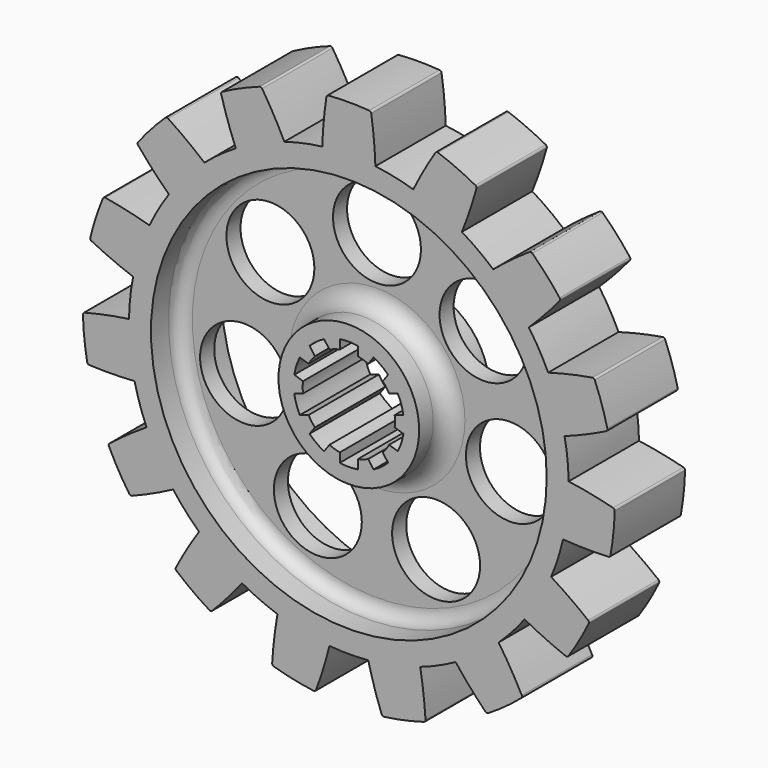
from build123d import *

# Parameters (mm, degrees)
F1_DEPTH = 20
F2_R     = 10
F3_DEPTH = 56
F5_R     = 45
F5_R_2   = 16
F6_DEPTH = 8
F7_R     = 45
F7_R_2   = 16
F8_DEPTH = 8
F9_R     = 3
F10_R    = 4
F11_R    = 0.5


with BuildPart() as f1:
    # F0 (on Front) → F1 (new body)
    with BuildSketch(Plane.XZ):
        with BuildLine():
            ThreePointArc((48.729363, -11.200408), (49.681325, -5.636126), (50, 0))
            ThreePointArc((50, 0), (49.998301, 0.412138), (49.993206, 0.824248))
            ThreePointArc((49.993206, 0.824248), (49.726095, 5.226423), (49.072105, 9.587936))
            ThreePointArc((49.072105, 9.587936), (47.552826, 15.45085), (45.335814, 21.087057))
            ThreePointArc((45.335814, 21.087057), (43.30127, 25), (40.929834, 28.718438))
            ThreePointArc((40.929834, 28.718438), (37.157241, 33.45653), (32.839448, 37.703722))
            ThreePointArc((32.839448, 37.703722), (29.389263, 40.45085), (25.710422, 42.883262))
            ThreePointArc((25.710422, 42.883262), (20.336832, 45.677273), (14.664844, 47.801071))
            ThreePointArc((14.664844, 47.801071), (10.395585, 48.90738), (6.045446, 49.63318))
            ThreePointArc((6.045446, 49.63318), (0, 50), (-6.045446, 49.63318))
            ThreePointArc((-6.045446, 49.63318), (-10.395585, 48.90738), (-14.664844, 47.801071))
            ThreePointArc((-14.664844, 47.801071), (-20.336832, 45.677273), (-25.710422, 42.883262))
            ThreePointArc((-25.710422, 42.883262), (-29.389263, 40.45085), (-32.839448, 37.703722))
            ThreePointArc((-32.839448, 37.703722), (-37.157241, 33.45653), (-40.929834, 28.718438))
            ThreePointArc((-40.929834, 28.718438), (-43.30127, 25), (-45.335814, 21.087057))
            ThreePointArc((-45.335814, 21.087057), (-47.552826, 15.45085), (-49.072105, 9.587936))
            ThreePointArc((-49.072105, 9.587936), (-49.726095, 5.226423), (-49.993206, 0.824248))
            ThreePointArc((-49.993206, 0.824248), (-49.726095, -5.226423), (-48.729363, -11.200408))
            ThreePointArc((-48.729363, -11.200408), (-47.552826, -15.45085), (-46.006318, -19.581081))
            ThreePointArc((-46.006318, -19.581081), (-43.30127, -25), (-39.960872, -30.0521))
            ThreePointArc((-39.960872, -30.0521), (-37.157241, -33.45653), (-34.06452, -36.600663))
            ThreePointArc((-34.06452, -36.600663), (-29.389263, -40.45085), (-24.282783, -43.70751))
            ThreePointArc((-24.282783, -43.70751), (-20.336832, -45.677273), (-16.232657, -47.291657))
            ThreePointArc((-16.232657, -47.291657), (-10.395585, -48.90738), (-4.40598, -49.805495))
            ThreePointArc((-4.40598, -49.805495), (0, -50), (4.40598, -49.805495))
            ThreePointArc((4.40598, -49.805495), (10.395585, -48.90738), (16.232657, -47.291657))
            ThreePointArc((16.232657, -47.291657), (20.336832, -45.677273), (24.282783, -43.70751))
            ThreePointArc((24.282783, -43.70751), (29.389263, -40.45085), (34.06452, -36.600663))
            ThreePointArc((34.06452, -36.600663), (37.157241, -33.45653), (39.960872, -30.0521))
            ThreePointArc((39.960872, -30.0521), (43.30127, -25), (46.006318, -19.581081))
            ThreePointArc((46.006318, -19.581081), (47.552826, -15.45085), (48.729363, -11.200408))
        make_face()
        with BuildLine():
            ThreePointArc((10.427405, 1.232572), (10.481835, 0.617354), (10.5, 0))
            ThreePointArc((10.5, 0), (10.481835, -0.617354), (10.427405, -1.232572))
            Line((10.427405, -1.232572), (12.408932, -1.876409))
            ThreePointArc((12.408932, -1.876409), (11.935759, -3.878163), (11.141962, -5.775741))
            Line((11.141962, -5.775741), (9.160435, -5.131903))
            ThreePointArc((9.160435, -5.131903), (8.494678, -6.171745), (7.71146, -7.126246))
            Line((7.71146, -7.126246), (8.936111, -8.811834))
            ThreePointArc((8.936111, -8.811834), (7.376705, -10.153163), (5.619142, -11.221753))
            Line((5.619142, -11.221753), (4.39449, -9.536166))
            ThreePointArc((4.39449, -9.536166), (3.244678, -9.986093), (2.05, -10.297937))
            Line((2.05, -10.297937), (2.05, -12.381438))
            ThreePointArc((2.05, -12.381438), (0, -12.55), (-2.05, -12.381438))
            Line((-2.05, -12.381438), (-2.05, -10.297937))
            ThreePointArc((-2.05, -10.297937), (-3.244678, -9.986093), (-4.39449, -9.536166))
            Line((-4.39449, -9.536166), (-5.619142, -11.221753))
            ThreePointArc((-5.619142, -11.221753), (-7.376705, -10.153163), (-8.936111, -8.811834))
            Line((-8.936111, -8.811834), (-7.71146, -7.126246))
            ThreePointArc((-7.71146, -7.126246), (-8.494678, -6.171745), (-9.160435, -5.131903))
            Line((-9.160435, -5.131903), (-11.141962, -5.775741))
            ThreePointArc((-11.141962, -5.775741), (-11.935759, -3.878163), (-12.408932, -1.876409))
            Line((-12.408932, -1.876409), (-10.427405, -1.232572))
            ThreePointArc((-10.427405, -1.232572), (-10.5, 0), (-10.427405, 1.232572))
            Line((-10.427405, 1.232572), (-12.408932, 1.876409))
            ThreePointArc((-12.408932, 1.876409), (-11.935759, 3.878163), (-11.141962, 5.775741))
            Line((-11.141962, 5.775741), (-9.160435, 5.131903))
            ThreePointArc((-9.160435, 5.131903), (-8.494678, 6.171745), (-7.71146, 7.126246))
            Line((-7.71146, 7.126246), (-8.936111, 8.811834))
            ThreePointArc((-8.936111, 8.811834), (-7.376705, 10.153163), (-5.619142, 11.221753))
            Line((-5.619142, 11.221753), (-4.39449, 9.536166))
            ThreePointArc((-4.39449, 9.536166), (-3.244678, 9.986093), (-2.05, 10.297937))
            Line((-2.05, 10.297937), (-2.05, 12.381438))
            ThreePointArc((-2.05, 12.381438), (0, 12.55), (2.05, 12.381438))
            Line((2.05, 12.381438), (2.05, 10.297937))
            ThreePointArc((2.05, 10.297937), (3.244678, 9.986093), (4.39449, 9.536166))
            Line((4.39449, 9.536166), (5.619142, 11.221753))
            ThreePointArc((5.619142, 11.221753), (7.376705, 10.153163), (8.936111, 8.811834))
            Line((8.936111, 8.811834), (7.71146, 7.126246))
            ThreePointArc((7.71146, 7.126246), (8.494678, 6.171745), (9.160435, 5.131903))
            Line((9.160435, 5.131903), (11.141962, 5.775741))
            ThreePointArc((11.141962, 5.775741), (11.935759, 3.878163), (12.408932, 1.876409))
            Line((12.408932, 1.876409), (10.427405, 1.232572))
        make_face(mode=Mode.SUBTRACT)
        with BuildLine():
            ThreePointArc((-59.43312, -11.311688), (-54.079586, -11.415323), (-48.729363, -11.200408))
            ThreePointArc((-48.729363, -11.200408), (-49.726095, -5.226423), (-49.993206, 0.824248))
            ThreePointArc((-49.993206, 0.824248), (-55.271196, -0.077907), (-60.486196, -1.29234))
            ThreePointArc((-60.486196, -1.29234), (-60.168575, -6.323972), (-59.43312, -11.311688))
        make_face()
        with BuildLine():
            ThreePointArc((-49.072105, 9.587936), (-47.552826, 15.45085), (-45.335814, 21.087057))
            ThreePointArc((-45.335814, 21.087057), (-50.524438, 22.409649), (-55.782531, 23.421341))
            ThreePointArc((-55.782531, 23.421341), (-57.538919, 18.695528), (-58.895735, 13.839886))
            ThreePointArc((-58.895735, 13.839886), (-54.04719, 11.567733), (-49.072105, 9.587936))
        make_face()
        with BuildLine():
            ThreePointArc((-40.929834, 28.718438), (-37.157241, 33.45653), (-32.839448, 37.703722))
            ThreePointArc((-32.839448, 37.703722), (-37.041545, 41.022373), (-41.43356, 44.085259))
            ThreePointArc((-41.43356, 44.085259), (-44.960262, 40.482402), (-48.174742, 36.598419))
            ThreePointArc((-48.174742, 36.598419), (-44.669544, 32.550622), (-40.929834, 28.718438))
        make_face()
        with BuildLine():
            ThreePointArc((-25.710422, 42.883262), (-20.336832, 45.677273), (-14.664844, 47.801071))
            ThreePointArc((-14.664844, 47.801071), (-17.153833, 52.541957), (-19.920351, 57.126435))
            ThreePointArc((-19.920351, 57.126435), (-24.607567, 55.2695), (-29.123899, 53.028752))
            ThreePointArc((-29.123899, 53.028752), (-27.568128, 47.905214), (-25.710422, 42.883262))
        make_face()
        with BuildLine():
            ThreePointArc((-6.045446, 49.63318), (0, 50), (6.045446, 49.63318))
            ThreePointArc((6.045446, 49.63318), (5.699933, 54.976558), (5.037269, 60.289932))
            ThreePointArc((5.037269, 60.289932), (0, 60.5), (-5.037269, 60.289932))
            ThreePointArc((-5.037269, 60.289932), (-5.699933, 54.976558), (-6.045446, 49.63318))
        make_face()
        with BuildLine():
            ThreePointArc((14.664844, 47.801071), (20.336832, 45.677273), (25.710422, 42.883262))
            ThreePointArc((25.710422, 42.883262), (27.568128, 47.905214), (29.123899, 53.028752))
            ThreePointArc((29.123899, 53.028752), (24.607567, 55.2695), (19.920351, 57.126435))
            ThreePointArc((19.920351, 57.126435), (17.153833, 52.541957), (14.664844, 47.801071))
        make_face()
        with BuildLine():
            ThreePointArc((32.839448, 37.703722), (37.157241, 33.45653), (40.929834, 28.718438))
            ThreePointArc((40.929834, 28.718438), (44.669544, 32.550622), (48.174742, 36.598419))
            ThreePointArc((48.174742, 36.598419), (44.960262, 40.482402), (41.43356, 44.085259))
            ThreePointArc((41.43356, 44.085259), (37.041545, 41.022373), (32.839448, 37.703722))
        make_face()
        with BuildLine():
            ThreePointArc((45.335814, 21.087057), (47.552826, 15.45085), (49.072105, 9.587936))
            ThreePointArc((49.072105, 9.587936), (54.04719, 11.567733), (58.895735, 13.839886))
            ThreePointArc((58.895735, 13.839886), (57.538919, 18.695528), (55.782531, 23.421341))
            ThreePointArc((55.782531, 23.421341), (50.524438, 22.409649), (45.335814, 21.087057))
        make_face()
        with BuildLine():
            ThreePointArc((49.993206, 0.824248), (49.998301, 0.412138), (50, 0))
            ThreePointArc((50, 0), (49.681325, -5.636126), (48.729363, -11.200408))
            ThreePointArc((48.729363, -11.200408), (54.079586, -11.415323), (59.43312, -11.311688))
            ThreePointArc((59.43312, -11.311688), (60.168575, -6.323972), (60.486196, -1.29234))
            ThreePointArc((60.486196, -1.29234), (55.271196, -0.077907), (49.993206, 0.824248))
        make_face()
        with BuildLine():
            ThreePointArc((54.731247, -25.782563), (50.461062, -22.551992), (46.006318, -19.581081))
            ThreePointArc((46.006318, -19.581081), (43.30127, -25), (39.960872, -30.0521))
            ThreePointArc((39.960872, -30.0521), (44.76113, -32.424566), (49.693979, -34.507369))
            ThreePointArc((49.693979, -34.507369), (52.394537, -30.25), (54.731247, -25.782563))
        make_face()
        with BuildLine():
            ThreePointArc((39.512769, -45.814747), (36.925753, -41.126633), (34.06452, -36.600663))
            ThreePointArc((34.06452, -36.600663), (29.389263, -40.45085), (24.282783, -43.70751))
            ThreePointArc((24.282783, -43.70751), (27.703068, -47.827306), (31.362297, -51.736412))
            ThreePointArc((31.362297, -51.736412), (35.561008, -48.945528), (39.512769, -45.814747))
        make_face()
        with BuildLine():
            ThreePointArc((17.462174, -57.925145), (17.005645, -52.590106), (16.232657, -47.291657))
            ThreePointArc((16.232657, -47.291657), (10.395585, -48.90738), (4.40598, -49.805495))
            ThreePointArc((4.40598, -49.805495), (5.854894, -54.960271), (7.607789, -60.01976))
            ThreePointArc((7.607789, -60.01976), (12.578657, -59.17793), (17.462174, -57.925145))
        make_face()
        with BuildLine():
            ThreePointArc((-7.607789, -60.01976), (-5.854894, -54.960271), (-4.40598, -49.805495))
            ThreePointArc((-4.40598, -49.805495), (-10.395585, -48.90738), (-16.232657, -47.291657))
            ThreePointArc((-16.232657, -47.291657), (-17.005645, -52.590106), (-17.462174, -57.925145))
            ThreePointArc((-17.462174, -57.925145), (-12.578657, -59.17793), (-7.607789, -60.01976))
        make_face()
        with BuildLine():
            ThreePointArc((-31.362297, -51.736412), (-27.703068, -47.827306), (-24.282783, -43.70751))
            ThreePointArc((-24.282783, -43.70751), (-29.389263, -40.45085), (-34.06452, -36.600663))
            ThreePointArc((-34.06452, -36.600663), (-36.925753, -41.126633), (-39.512769, -45.814747))
            ThreePointArc((-39.512769, -45.814747), (-35.561008, -48.945528), (-31.362297, -51.736412))
        make_face()
        with BuildLine():
            ThreePointArc((-49.693979, -34.507369), (-44.76113, -32.424566), (-39.960872, -30.0521))
            ThreePointArc((-39.960872, -30.0521), (-43.30127, -25), (-46.006318, -19.581081))
            ThreePointArc((-46.006318, -19.581081), (-50.461062, -22.551992), (-54.731247, -25.782563))
            ThreePointArc((-54.731247, -25.782563), (-52.394537, -30.25), (-49.693979, -34.507369))
        make_face()
    extrude(amount=F1_DEPTH)

    # F2 (on Front) → F3 (cut)
    with BuildSketch(Plane.XZ):
        with Locations((0, 31)):
            Circle(F2_R)
        with Locations((-24.236776, 19.328184)):
            Circle(F2_R)
        with Locations((-30.222765, -6.898149)):
            Circle(F2_R)
        with Locations((-13.450396, -27.930035)):
            Circle(F2_R)
        with Locations((13.450396, -27.930035)):
            Circle(F2_R)
        with Locations((30.222765, -6.898149)):
            Circle(F2_R)
        with Locations((24.236776, 19.328184)):
            Circle(F2_R)
    extrude(amount=F3_DEPTH, mode=Mode.SUBTRACT)

    # F5 (on offset) → F6 (cut)
    with BuildSketch(Plane.XZ.offset(20)):
        Circle(F5_R)
        Circle(F5_R_2, mode=Mode.SUBTRACT)
    extrude(amount=-F6_DEPTH, mode=Mode.SUBTRACT)

    # F7 (on Front) → F8 (cut)
    with BuildSketch(Plane.XZ):
        Circle(F7_R)
        Circle(F7_R_2, mode=Mode.SUBTRACT)
    extrude(amount=F8_DEPTH, mode=Mode.SUBTRACT)

    # F9
    f9_edges = [f1.edges().sort_by_distance(p)[0] for p in [
        (-45, -12, 0),
        (-45, -8, 0),
    ]]
    fillet(f9_edges, radius=F9_R)

    # F10
    f10_edges = [f1.edges().sort_by_distance(p)[0] for p in [
        (-16, -12, 0),
        (-16, -8, 0),
    ]]
    fillet(f10_edges, radius=F10_R)

    # F11
    f11_edges = [f1.edges().sort_by_distance(p)[0] for p in [
        (5.037269, -10, 60.289932),
        (-5.037269, -10, 60.289932),
        (29.123899, -10, 53.028752),
        (19.920351, -10, 57.126435),
        (-29.123899, -10, 53.028752),
        (-19.920351, -10, 57.126435),
        (-41.43356, -10, 44.085259),
        (-48.174742, -10, 36.598419),
        (-55.782531, -10, 23.421341),
        (-58.895735, -10, 13.839886),
        (-60.486196, -10, -1.29234),
        (-59.43312, -10, -11.311688),
        (-54.731247, -10, -25.782563),
        (-49.693979, -10, -34.507369),
        (-39.512769, -10, -45.814747),
        (-31.362297, -10, -51.736412),
        (-17.462174, -10, -57.925145),
        (-7.607789, -10, -60.01976),
        (7.607789, -10, -60.01976),
        (17.462174, -10, -57.925145),
        (31.362297, -10, -51.736412),
        (39.512769, -10, -45.814747),
        (49.693979, -10, -34.507369),
        (54.731247, -10, -25.782563),
        (59.43312, -10, -11.311688),
        (60.486196, -10, -1.29234),
        (41.43356, -10, 44.085259),
        (48.174742, -10, 36.598419),
        (55.782531, -10, 23.421341),
        (58.895735, -10, 13.839886),
    ]]
    fillet(f11_edges, radius=F11_R)


solid = f1.part
